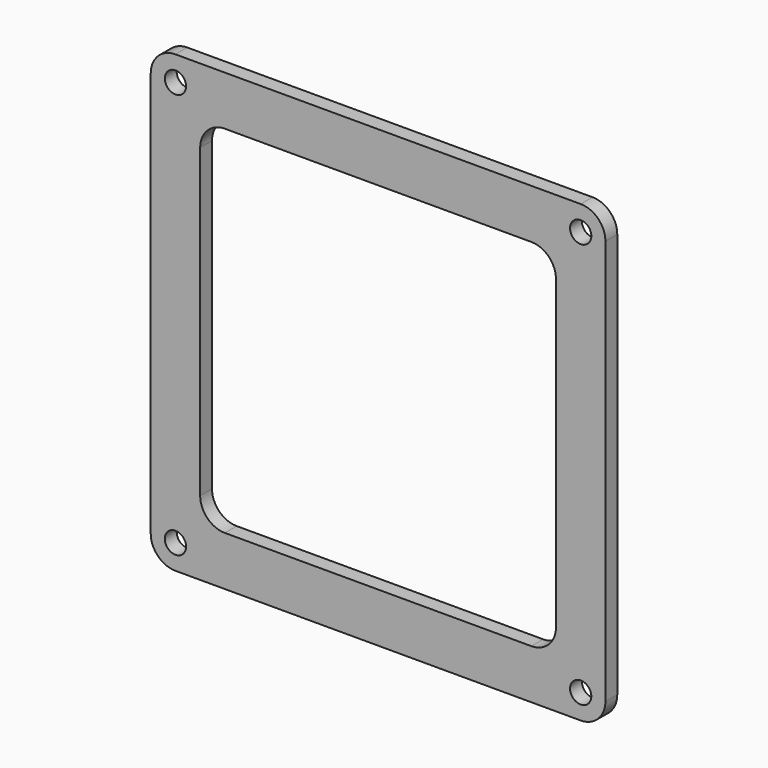
from build123d import *

# Parameters (mm, degrees)
F0_W     = 92
F0_H     = 92
F0_R     = 2.15
F0_W_2   = 72
F0_H_2   = 72
F1_DEPTH = 1.5
F2_W     = 72
F2_H     = 3
F2_W_2   = 3
F2_H_2   = 72
F3_DEPTH = 1.5
F4_R     = 5
F5_R     = 0.75


with BuildPart() as f1:
    # F0 (on Front) → F1 (new body, symmetric)
    with BuildSketch(Plane.XZ):
        Rectangle(F0_W, F0_H)
        with Locations((-41, -41)):
            Circle(F0_R, mode=Mode.SUBTRACT)
        with Locations((41, -41)):
            Circle(F0_R, mode=Mode.SUBTRACT)
        with Locations((-41, 41)):
            Circle(F0_R, mode=Mode.SUBTRACT)
        Rectangle(F0_W_2, F0_H_2, mode=Mode.SUBTRACT)
        with Locations((41, 41)):
            Circle(F0_R, mode=Mode.SUBTRACT)
    extrude(amount=F1_DEPTH, both=True)

    # F2 (on face) → F3 (join)
    with BuildSketch(Plane(origin=(0, 1.5, 0), x_dir=(-1, 0, 0), z_dir=(0, 1, 0))):
        with Locations((0, 41)):
            Rectangle(F2_W, F2_H)
        with Locations((-41, 0)):
            Rectangle(F2_W_2, F2_H_2)
        with Locations((41, 0)):
            Rectangle(F2_W_2, F2_H_2)
        with Locations((0, -41)):
            Rectangle(F2_W, F2_H)
    extrude(amount=F3_DEPTH)

    # F4
    f4_edges = [f1.edges().sort_by_distance(p)[0] for p in [
        (-46, 0, 46),
        (46, 0, 46),
        (46, 0, -46),
        (-46, 0, -46),
        (36, 0, -36),
        (-36, 0, -36),
        (36, 0, 36),
        (-36, 0, 36),
    ]]
    fillet(f4_edges, radius=F4_R)

    # F5
    f5_edges = [f1.edges().sort_by_distance(p)[0] for p in [
        (39.5, 3, 0),
        (42.5, 3, 0),
        (41, 3, -36),
        (41, 3, 36),
        (0, 3, 42.5),
        (36, 3, 41),
        (0, 3, 39.5),
        (-36, 3, 41),
        (-41, 3, 36),
        (-39.5, 3, 0),
        (-42.5, 3, 0),
        (-41, 3, -36),
        (-36, 3, -41),
        (0, 3, -39.5),
        (36, 3, -41),
        (0, 3, -42.5),
    ]]
    fillet(f5_edges, radius=F5_R)


solid = f1.part
